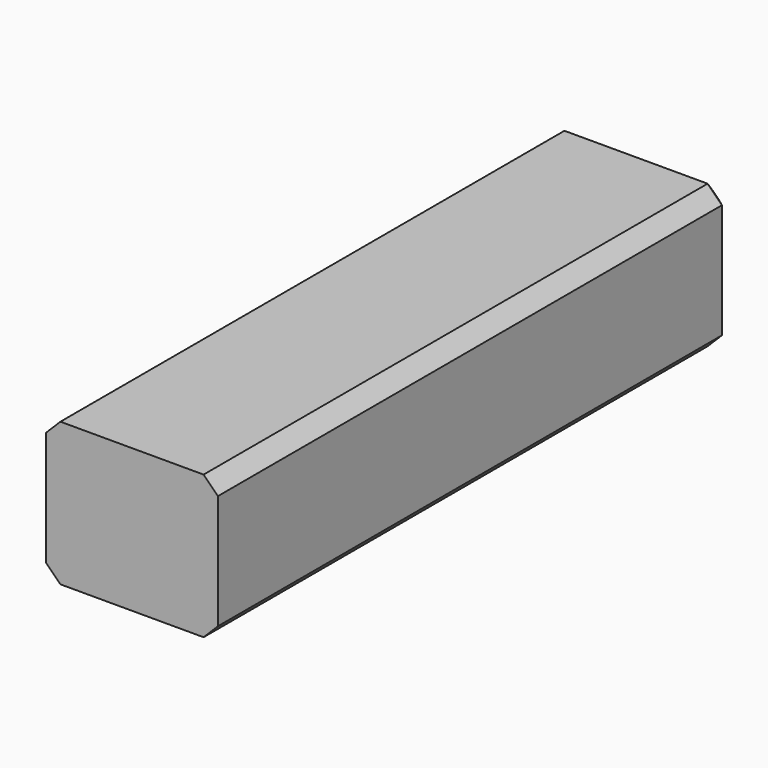
from build123d import *

# Parameters (mm, degrees)
F0_W     = 12
F0_H     = 10
F1_DEPTH = 45
F2_SIZE  = 1
F3_SIZE  = 1


with BuildPart() as f1:
    # F0 (on Front) → F1 (new body)
    with BuildSketch(Plane.XZ):
        Rectangle(F0_W, F0_H)
    extrude(amount=F1_DEPTH)

    # F2
    f2_edges = [f1.edges().sort_by_distance(p)[0] for p in [
        (6, -22.5, 5),
        (-6, -22.5, 5),
        (6, -22.5, -5),
        (-6, -22.5, -5),
    ]]
    chamfer(f2_edges, length=F2_SIZE)

    # F3
    f3_edges = [f1.edges().sort_by_distance(p)[0] for p in [
        (0, 0, -5),
        (-5.5, 0, -4.5),
        (5.5, 0, -4.5),
        (-6, 0, 0),
        (6, 0, 0),
        (-5.5, 0, 4.5),
        (5.5, 0, 4.5),
        (0, 0, 5),
    ]]
    chamfer(f3_edges, length=F3_SIZE)


solid = f1.part
